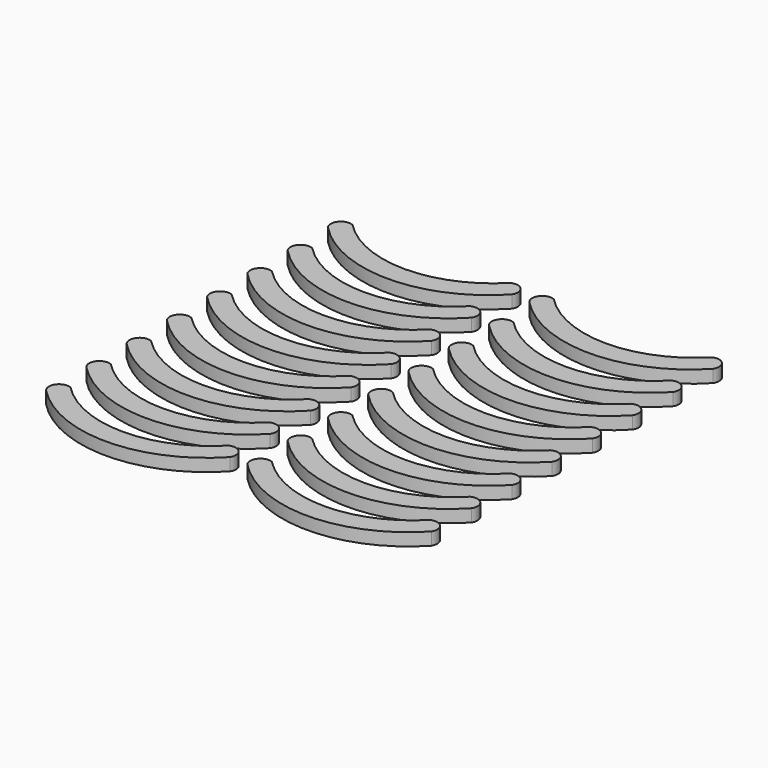
from build123d import *

# Parameters (mm, degrees)
PAD015_DEPTH = 5
PAD016_DEPTH = 5
PAD017_DEPTH = 5
PAD018_DEPTH = 5
PAD019_DEPTH = 5
PAD020_DEPTH = 5
PAD021_DEPTH = 5
PAD022_DEPTH = 5
PAD023_DEPTH = 5
PAD024_DEPTH = 5
PAD025_DEPTH = 5
PAD026_DEPTH = 5
PAD027_DEPTH = 5
PAD028_DEPTH = 5
PAD029_DEPTH = 5
PAD005_DEPTH = 5


with BuildPart() as body015:
    # Sketch017 → Pad015 (new body)
    with BuildSketch(Plane.XY):
        with BuildLine():
            ThreePointArc((-34.693021, -21.871318), (1.733659, -37.130739), (37.907431, -21.281098))
            ThreePointArc((37.907431, -21.281098), (37.488037, -16.40932), (32.674647, -15.548279))
            ThreePointArc((-29.949797, -15.637989), (1.381269, -28.747427), (32.674647, -15.548279))
            ThreePointArc((-29.949797, -15.637989), (-34.795459, -16.872036), (-34.693021, -21.871318))
        make_face()
    extrude(amount=PAD015_DEPTH)


with BuildPart() as body015_1:
    # Body015 placement: moved
    add(body015.part.moved(Location((-40, 0, -5))))


with BuildPart() as body016:
    # Sketch018 → Pad016 (new body)
    with BuildSketch(Plane.XY):
        with BuildLine():
            ThreePointArc((-34.693021, -21.871318), (1.733659, -37.130739), (37.907431, -21.281098))
            ThreePointArc((37.907431, -21.281098), (37.488037, -16.40932), (32.674647, -15.548279))
            ThreePointArc((-29.949797, -15.637989), (1.381269, -28.747427), (32.674647, -15.548279))
            ThreePointArc((-29.949797, -15.637989), (-34.795459, -16.872036), (-34.693021, -21.871318))
        make_face()
    extrude(amount=PAD016_DEPTH)


with BuildPart() as body016_1:
    # Body016 placement: moved
    add(body016.part.moved(Location((-40, 20, -5))))


with BuildPart() as body017:
    # Sketch019 → Pad017 (new body)
    with BuildSketch(Plane.XY):
        with BuildLine():
            ThreePointArc((-34.693021, -21.871318), (1.733659, -37.130739), (37.907431, -21.281098))
            ThreePointArc((37.907431, -21.281098), (37.488037, -16.40932), (32.674647, -15.548279))
            ThreePointArc((-29.949797, -15.637989), (1.381269, -28.747427), (32.674647, -15.548279))
            ThreePointArc((-29.949797, -15.637989), (-34.795459, -16.872036), (-34.693021, -21.871318))
        make_face()
    extrude(amount=PAD017_DEPTH)


with BuildPart() as body017_1:
    # Body017 placement: moved
    add(body017.part.moved(Location((-40, 40, -5))))


with BuildPart() as body018:
    # Sketch020 → Pad018 (new body)
    with BuildSketch(Plane.XY):
        with BuildLine():
            ThreePointArc((-34.693021, -21.871318), (1.733659, -37.130739), (37.907431, -21.281098))
            ThreePointArc((37.907431, -21.281098), (37.488037, -16.40932), (32.674647, -15.548279))
            ThreePointArc((-29.949797, -15.637989), (1.381269, -28.747427), (32.674647, -15.548279))
            ThreePointArc((-29.949797, -15.637989), (-34.795459, -16.872036), (-34.693021, -21.871318))
        make_face()
    extrude(amount=PAD018_DEPTH)


with BuildPart() as body018_1:
    # Body018 placement: moved
    add(body018.part.moved(Location((-40, 60, -5))))


with BuildPart() as body019:
    # Sketch021 → Pad019 (new body)
    with BuildSketch(Plane.XY):
        with BuildLine():
            ThreePointArc((-34.693021, -21.871318), (1.733659, -37.130739), (37.907431, -21.281098))
            ThreePointArc((37.907431, -21.281098), (37.488037, -16.40932), (32.674647, -15.548279))
            ThreePointArc((-29.949797, -15.637989), (1.381269, -28.747427), (32.674647, -15.548279))
            ThreePointArc((-29.949797, -15.637989), (-34.795459, -16.872036), (-34.693021, -21.871318))
        make_face()
    extrude(amount=PAD019_DEPTH)


with BuildPart() as body019_1:
    # Body019 placement: moved
    add(body019.part.moved(Location((40, -20, -5))))


with BuildPart() as body020:
    # Sketch022 → Pad020 (new body)
    with BuildSketch(Plane.XY):
        with BuildLine():
            ThreePointArc((-34.693021, -21.871318), (1.733659, -37.130739), (37.907431, -21.281098))
            ThreePointArc((37.907431, -21.281098), (37.488037, -16.40932), (32.674647, -15.548279))
            ThreePointArc((-29.949797, -15.637989), (1.381269, -28.747427), (32.674647, -15.548279))
            ThreePointArc((-29.949797, -15.637989), (-34.795459, -16.872036), (-34.693021, -21.871318))
        make_face()
    extrude(amount=PAD020_DEPTH)


with BuildPart() as body020_1:
    # Body020 placement: moved
    add(body020.part.moved(Location((40, 0, -5))))


with BuildPart() as body021:
    # Sketch023 → Pad021 (new body)
    with BuildSketch(Plane.XY):
        with BuildLine():
            ThreePointArc((-34.693021, -21.871318), (1.733659, -37.130739), (37.907431, -21.281098))
            ThreePointArc((37.907431, -21.281098), (37.488037, -16.40932), (32.674647, -15.548279))
            ThreePointArc((-29.949797, -15.637989), (1.381269, -28.747427), (32.674647, -15.548279))
            ThreePointArc((-29.949797, -15.637989), (-34.795459, -16.872036), (-34.693021, -21.871318))
        make_face()
    extrude(amount=PAD021_DEPTH)


with BuildPart() as body021_1:
    # Body021 placement: moved
    add(body021.part.moved(Location((40, 20, -5))))


with BuildPart() as body022:
    # Sketch024 → Pad022 (new body)
    with BuildSketch(Plane.XY):
        with BuildLine():
            ThreePointArc((-34.693021, -21.871318), (1.733659, -37.130739), (37.907431, -21.281098))
            ThreePointArc((37.907431, -21.281098), (37.488037, -16.40932), (32.674647, -15.548279))
            ThreePointArc((-29.949797, -15.637989), (1.381269, -28.747427), (32.674647, -15.548279))
            ThreePointArc((-29.949797, -15.637989), (-34.795459, -16.872036), (-34.693021, -21.871318))
        make_face()
    extrude(amount=PAD022_DEPTH)


with BuildPart() as body022_1:
    # Body022 placement: moved
    add(body022.part.moved(Location((40, 40, -5))))


with BuildPart() as body023:
    # Sketch025 → Pad023 (new body)
    with BuildSketch(Plane.XY):
        with BuildLine():
            ThreePointArc((-34.693021, -21.871318), (1.733659, -37.130739), (37.907431, -21.281098))
            ThreePointArc((37.907431, -21.281098), (37.488037, -16.40932), (32.674647, -15.548279))
            ThreePointArc((-29.949797, -15.637989), (1.381269, -28.747427), (32.674647, -15.548279))
            ThreePointArc((-29.949797, -15.637989), (-34.795459, -16.872036), (-34.693021, -21.871318))
        make_face()
    extrude(amount=PAD023_DEPTH)


with BuildPart() as body023_1:
    # Body023 placement: moved
    add(body023.part.moved(Location((40, 60, -5))))


with BuildPart() as body024:
    # Sketch026 → Pad024 (new body)
    with BuildSketch(Plane.XY):
        with BuildLine():
            ThreePointArc((-34.693021, -21.871318), (1.733659, -37.130739), (37.907431, -21.281098))
            ThreePointArc((37.907431, -21.281098), (37.488037, -16.40932), (32.674647, -15.548279))
            ThreePointArc((-29.949797, -15.637989), (1.381269, -28.747427), (32.674647, -15.548279))
            ThreePointArc((-29.949797, -15.637989), (-34.795459, -16.872036), (-34.693021, -21.871318))
        make_face()
    extrude(amount=PAD024_DEPTH)


with BuildPart() as body024_1:
    # Body024 placement: moved
    add(body024.part.moved(Location((40, 80, -5))))


with BuildPart() as body025:
    # Sketch027 → Pad025 (new body)
    with BuildSketch(Plane.XY):
        with BuildLine():
            ThreePointArc((-34.693021, -21.871318), (1.733659, -37.130739), (37.907431, -21.281098))
            ThreePointArc((37.907431, -21.281098), (37.488037, -16.40932), (32.674647, -15.548279))
            ThreePointArc((-29.949797, -15.637989), (1.381269, -28.747427), (32.674647, -15.548279))
            ThreePointArc((-29.949797, -15.637989), (-34.795459, -16.872036), (-34.693021, -21.871318))
        make_face()
    extrude(amount=PAD025_DEPTH)


with BuildPart() as body025_1:
    # Body025 placement: moved
    add(body025.part.moved(Location((-40, 80, -5))))


with BuildPart() as body026:
    # Sketch028 → Pad026 (new body)
    with BuildSketch(Plane.XY):
        with BuildLine():
            ThreePointArc((-34.693021, -21.871318), (1.733659, -37.130739), (37.907431, -21.281098))
            ThreePointArc((37.907431, -21.281098), (37.488037, -16.40932), (32.674647, -15.548279))
            ThreePointArc((-29.949797, -15.637989), (1.381269, -28.747427), (32.674647, -15.548279))
            ThreePointArc((-29.949797, -15.637989), (-34.795459, -16.872036), (-34.693021, -21.871318))
        make_face()
    extrude(amount=PAD026_DEPTH)


with BuildPart() as body026_1:
    # Body026 placement: moved
    add(body026.part.moved(Location((40, -40, -5))))


with BuildPart() as body027:
    # Sketch029 → Pad027 (new body)
    with BuildSketch(Plane.XY):
        with BuildLine():
            ThreePointArc((-34.693021, -21.871318), (1.733659, -37.130739), (37.907431, -21.281098))
            ThreePointArc((37.907431, -21.281098), (37.488037, -16.40932), (32.674647, -15.548279))
            ThreePointArc((-29.949797, -15.637989), (1.381269, -28.747427), (32.674647, -15.548279))
            ThreePointArc((-29.949797, -15.637989), (-34.795459, -16.872036), (-34.693021, -21.871318))
        make_face()
    extrude(amount=PAD027_DEPTH)


with BuildPart() as body027_1:
    # Body027 placement: moved
    add(body027.part.moved(Location((-40, -40, -5))))


with BuildPart() as body028:
    # Sketch030 → Pad028 (new body)
    with BuildSketch(Plane.XY):
        with BuildLine():
            ThreePointArc((-34.693021, -21.871318), (1.733659, -37.130739), (37.907431, -21.281098))
            ThreePointArc((37.907431, -21.281098), (37.488037, -16.40932), (32.674647, -15.548279))
            ThreePointArc((-29.949797, -15.637989), (1.381269, -28.747427), (32.674647, -15.548279))
            ThreePointArc((-29.949797, -15.637989), (-34.795459, -16.872036), (-34.693021, -21.871318))
        make_face()
    extrude(amount=PAD028_DEPTH)


with BuildPart() as body028_1:
    # Body028 placement: moved
    add(body028.part.moved(Location((40, 100, -5))))


with BuildPart() as body029:
    # Sketch031 → Pad029 (new body)
    with BuildSketch(Plane.XY):
        with BuildLine():
            ThreePointArc((-34.693021, -21.871318), (1.733659, -37.130739), (37.907431, -21.281098))
            ThreePointArc((37.907431, -21.281098), (37.488037, -16.40932), (32.674647, -15.548279))
            ThreePointArc((-29.949797, -15.637989), (1.381269, -28.747427), (32.674647, -15.548279))
            ThreePointArc((-29.949797, -15.637989), (-34.795459, -16.872036), (-34.693021, -21.871318))
        make_face()
    extrude(amount=PAD029_DEPTH)


with BuildPart() as body029_1:
    # Body029 placement: moved
    add(body029.part.moved(Location((-40, 100, -5))))


with BuildPart() as fusion:
    # Sketch005 → Pad005 (new body)
    with BuildSketch(Plane.XY):
        with BuildLine():
            ThreePointArc((-34.693021, -21.871318), (1.733659, -37.130739), (37.907431, -21.281098))
            ThreePointArc((37.907431, -21.281098), (37.488037, -16.40932), (32.674647, -15.548279))
            ThreePointArc((-29.949797, -15.637989), (1.381269, -28.747427), (32.674647, -15.548279))
            ThreePointArc((-29.949797, -15.637989), (-34.795459, -16.872036), (-34.693021, -21.871318))
        make_face()
    extrude(amount=PAD005_DEPTH)


with BuildPart() as fusion_1:
    # Body005 placement: moved
    add(fusion.part.moved(Location((-40, -20, -5))))

    # Fusion: union Body015, Body016, Body017, Body018, Body019, Body020, Body021, Body022, Body023, Body024, Body025, Body026, Body027, Body028, Body029
    add(body015_1.part)
    add(body016_1.part)
    add(body017_1.part)
    add(body018_1.part)
    add(body019_1.part)
    add(body020_1.part)
    add(body021_1.part)
    add(body022_1.part)
    add(body023_1.part)
    add(body024_1.part)
    add(body025_1.part)
    add(body026_1.part)
    add(body027_1.part)
    add(body028_1.part)
    add(body029_1.part)


with BuildPart() as fusion_2:
    # Fusion placement: moved
    add(fusion_1.part.moved(Location((0, -5, 0))))


solid = fusion_2.part
